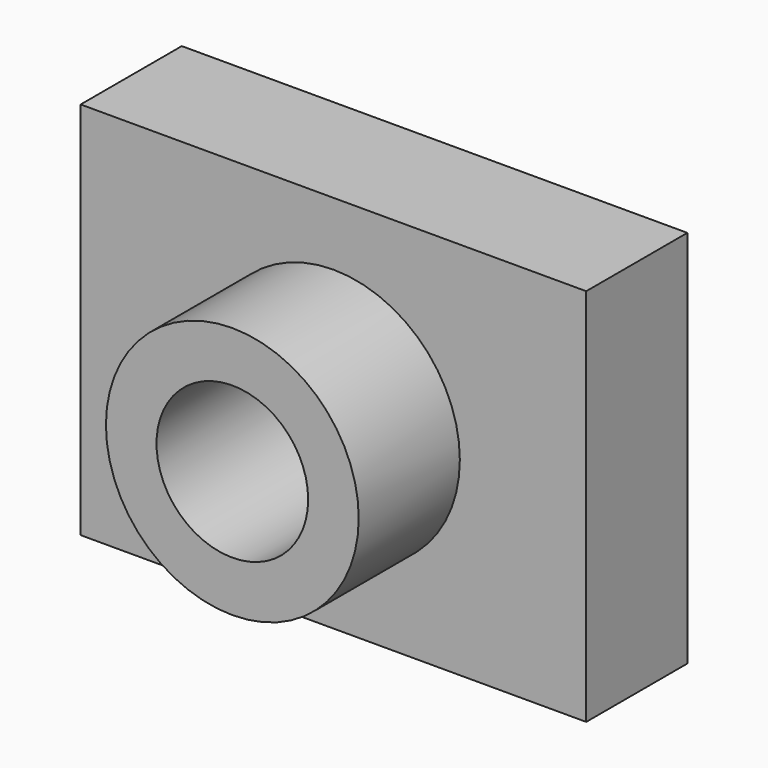
from build123d import *

# Parameters (mm, degrees)
F0_W     = 101.6
F0_H     = 76.2
F1_DEPTH = 25.4
F2_R     = 25.4
F3_DEPTH = 25.4
F4_R     = 15.24
F5_DEPTH = 61.722


with BuildPart() as f1:
    # F0 (on Front) → F1 (new body)
    with BuildSketch(Plane.XZ):
        Rectangle(F0_W, F0_H)
    extrude(amount=F1_DEPTH)

    # F2 (on face) → F3 (join)
    with BuildSketch(Plane.XZ.offset(25.4)):
        Circle(F2_R)
    extrude(amount=F3_DEPTH)

    # F4 (on face) → F5 (cut)
    with BuildSketch(Plane.XZ.offset(50.8)):
        Circle(F4_R)
    extrude(amount=-F5_DEPTH, mode=Mode.SUBTRACT)


solid = f1.part
